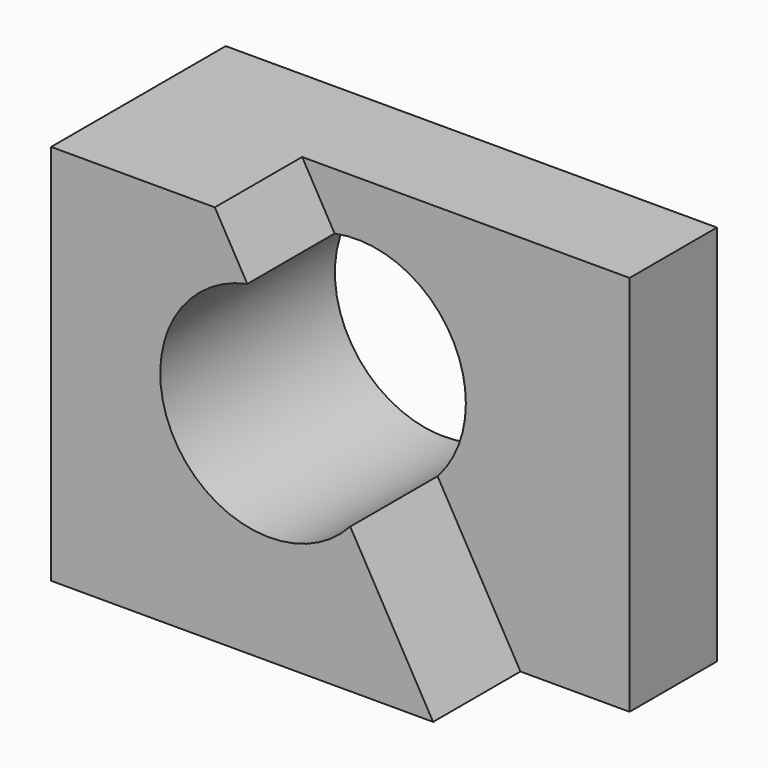
from build123d import *

# Parameters (mm, degrees)
F0_W     = 57.15
F0_H     = 44.45
F1_DEPTH = 25.4
F3_DEPTH = 12.7
F4_R     = 12.7
F5_DEPTH = 25.401


with BuildPart() as f1:
    # F0 (on Front) → F1 (new body)
    with BuildSketch(Plane.XZ):
        with Locations((-36.291257, 37.469555)):
            Rectangle(F0_W, F0_H)
    extrude(amount=F1_DEPTH)

    # F2 (on face) → F3 (cut)
    with BuildSketch(Plane.XZ.offset(25.4)):
        Polygon((-7.716257, 59.694555), (-45.816257, 59.694555), (-20.416257, 15.244555), (-7.716257, 15.244555), align=None)
    extrude(amount=-F3_DEPTH, mode=Mode.SUBTRACT)

    # F4 (on face) → F5 (cut, through all)
    with BuildSketch(Plane.XZ):
        with Locations((-39.466257, 40.644555)):
            Circle(F4_R)
    extrude(amount=F5_DEPTH, mode=Mode.SUBTRACT)


solid = f1.part
